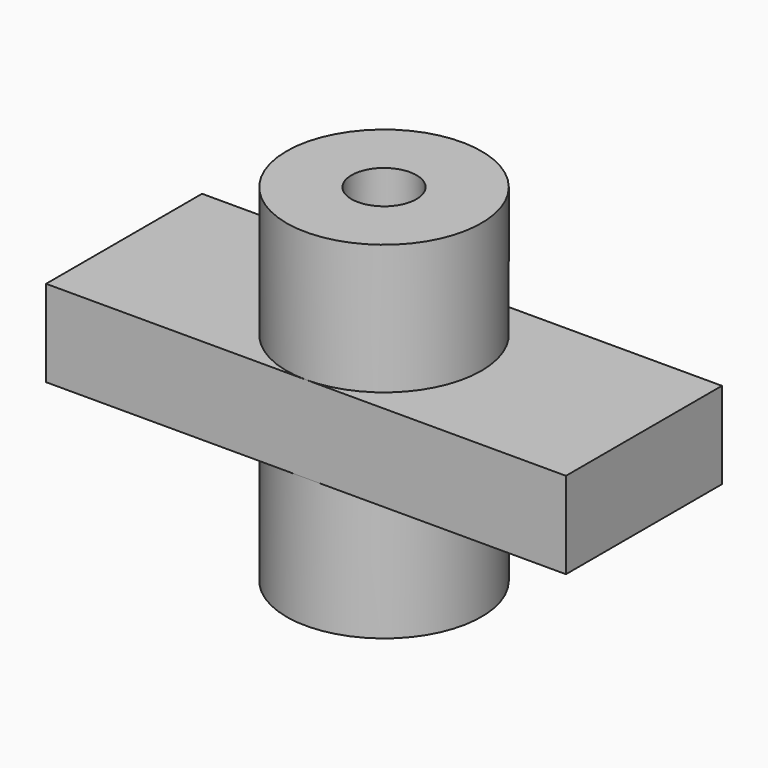
from build123d import *

# Parameters (mm, degrees)
F4_DEPTH = 12.7
F5_R     = 4.7625
F6_DEPTH = 50.801


with BuildPart() as f1:
    # F0 (on Front) → F1 (revolve)
    with BuildSketch(Plane.XZ):
        Polygon((-4.7625, 44.45), (-4.7625, 50.8), (-14.2875, 50.8), (-14.2875, 0), (-4.7625, 0), (-4.7625, 38.1), (-7.9375, 38.1), (-7.9375, 44.45), align=None)
    revolve(axis=Axis((0, 0, 5.547127), (0, 0, 1)))

    # F3 (on offset) → F4 (join)
    with BuildSketch(Plane.XY.offset(19.05)):
        with BuildLine():
            Line((0, 14.2875), (-38.1, 14.2875))
            Line((-38.1, 14.2875), (-38.1, -14.2875))
            Line((-38.1, -14.2875), (0, -14.2875))
            ThreePointArc((0, -14.2875), (-14.2875, 0), (0, 14.2875))
        make_face()
        with BuildLine():
            Line((38.1, 14.2875), (0, 14.2875))
            ThreePointArc((0, 14.2875), (10.102788, 10.102788), (14.2875, 0))
            ThreePointArc((14.2875, 0), (10.102788, -10.102788), (0, -14.2875))
            Line((0, -14.2875), (38.1, -14.2875))
            Line((38.1, -14.2875), (38.1, 14.2875))
        make_face()
    extrude(amount=F4_DEPTH)

    # F5 (on face) → F6 (cut, through all)
    with BuildSketch(Plane.XY.offset(50.8)):
        Circle(F5_R)
    extrude(amount=-F6_DEPTH, mode=Mode.SUBTRACT)


solid = f1.part
